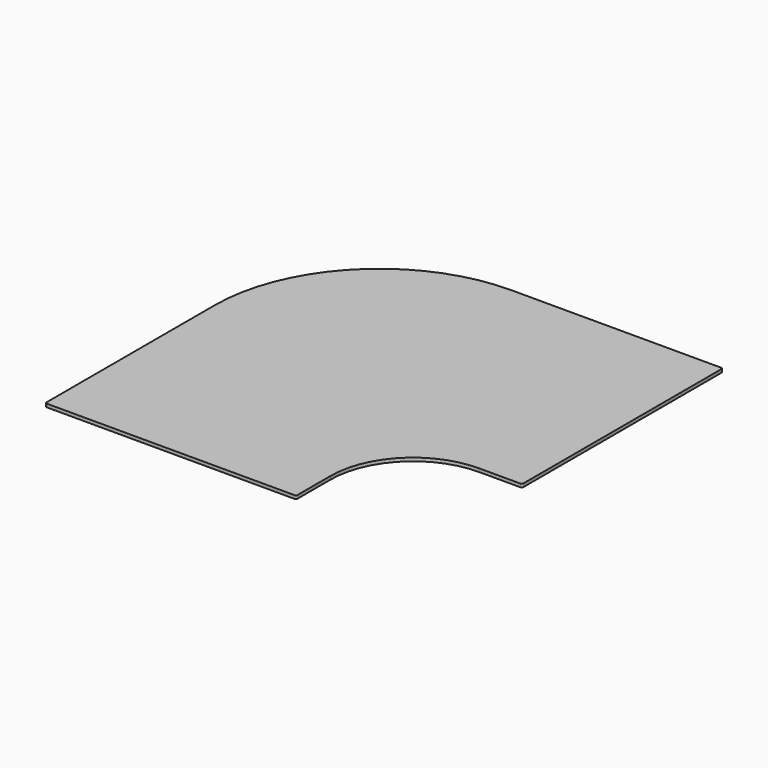
from build123d import *

# Parameters (mm, degrees)
F1_DEPTH = 24
F5_R     = 5.08


with BuildPart() as f1:
    # F0 (on Top) → F1 (new body)
    with BuildSketch(Plane.XY):
        with BuildLine():
            Line((-131, 0), (0, 0))
            Line((0, 0), (0, 762))
            Line((0, 762), (-643, 762))
            ThreePointArc((-643, 762), (-996.5533905933, 615.5533905933), (-1143, 262))
            Line((-1143, 262), (-1143, -381))
            Line((-1143, -381), (-381, -381))
            Line((-381, -381), (-381, -250))
            ThreePointArc((-381, -250), (-307.7766952966, -73.2233047034), (-131, 0))
        make_face()
    extrude(amount=F1_DEPTH)

    # F4: sweep along a path in F3
    with BuildLine(Plane(origin=(0, 0, 0), x_dir=(1, 0, 0), z_dir=(0, 0, -1))) as f4_path:
        Line((-381, 381), (-1143, 381))
        Line((-1143, 381), (-1143, -262))
        ThreePointArc((-1143, -262), (-996.5533905933, -615.5533905933), (-643, -762))
        Line((-643, -762), (0, -762))
        Line((0, -762), (0, 0))
        Line((0, 0), (-131, 0))
        ThreePointArc((-131, 0), (-307.7766952966, 73.2233047034), (-381, 250))
        Line((-381, 250), (-381, 381))
    # F2 (on face) → F4 (sweep, cut)
    with BuildSketch(Plane.YZ):
        Polygon((762, 0), (762, 14), (712, 0), align=None)
    sweep(path=f4_path.line, transition=Transition.RIGHT, mode=Mode.SUBTRACT)

    # F5
    f5_edges = [f1.edges().sort_by_distance(p)[0] for p in [
        (0, 762, 19),
        (0, 0, 19),
        (-381, -381, 19),
        (-1143, -381, 19),
    ]]
    fillet(f5_edges, radius=F5_R)


solid = f1.part
